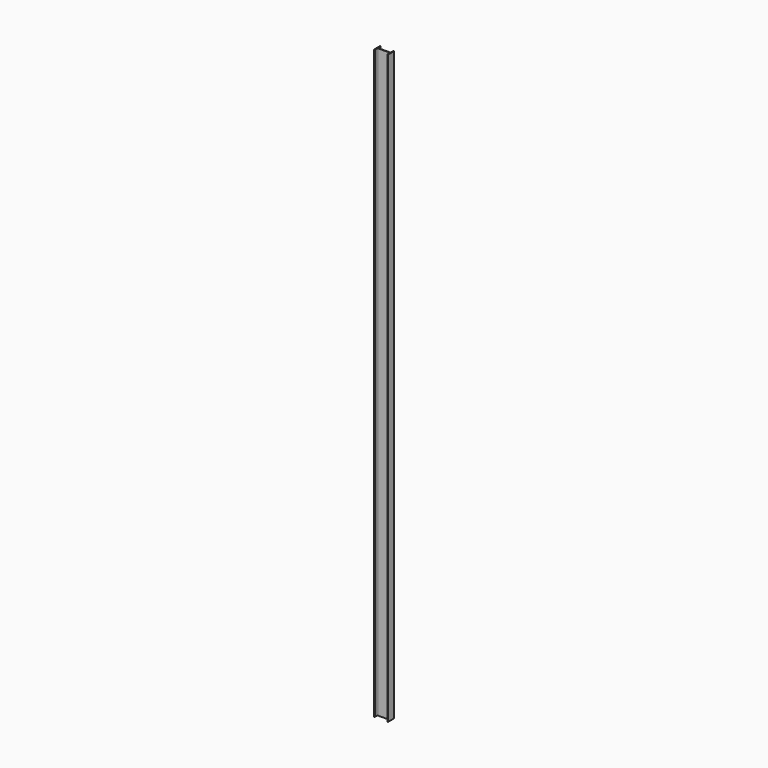
from build123d import *

# Parameters (mm, degrees)
F1_DEPTH = 5870


with BuildPart() as f1:
    # F0 (on Top) → F1 (new body)
    with BuildSketch(Plane.XY):
        with BuildLine():
            Line((-140, 73), (-140, 0))
            Line((-140, 0), (-133.1, 0))
            Line((-133.1, 0), (-133.1, 29.15))
            ThreePointArc((-133.1, 29.15), (-131.635534, 32.685534), (-128.1, 34.15))
            Line((-128.1, 34.15), (-11.9, 34.15))
            ThreePointArc((-11.9, 34.15), (-8.364466, 32.685534), (-6.9, 29.15))
            Line((-6.9, 29.15), (-6.9, 0))
            Line((-6.9, 0), (0, 0))
            Line((0, 0), (0, 73))
            Line((0, 73), (-6.9, 73))
            Line((-6.9, 73), (-6.9, 43.85))
            ThreePointArc((-6.9, 43.85), (-8.364466, 40.314466), (-11.9, 38.85))
            Line((-11.9, 38.85), (-128.1, 38.85))
            ThreePointArc((-128.1, 38.85), (-131.635534, 40.314466), (-133.1, 43.85))
            Line((-133.1, 43.85), (-133.1, 73))
            Line((-133.1, 73), (-140, 73))
        make_face()
    extrude(amount=F1_DEPTH)


solid = f1.part
